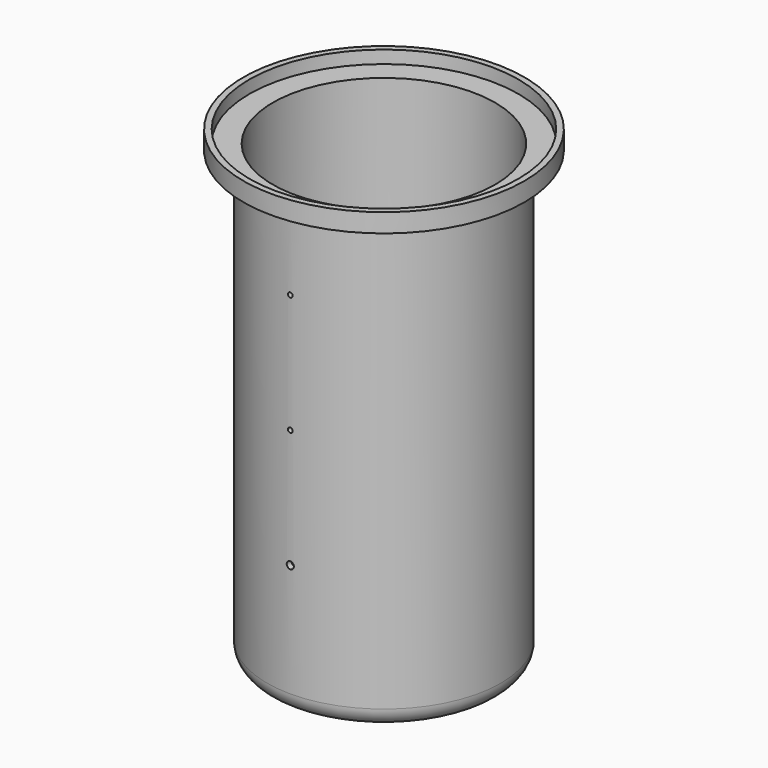
from build123d import *

# Parameters (mm, degrees)
F2_T     = -6.35
F4_DEPTH = 150.001
F6_DEPTH = 150.001


with BuildPart() as f1:
    # F0 (on Front) → F1 (revolve)
    with BuildSketch(Plane.XZ):
        with BuildLine():
            Line((0, 257.5), (0, -242.5))
            Line((0, -242.5), (105, -242.5))
            ThreePointArc((105, -242.5), (119.1421356237, -236.6421356237), (125, -222.5))
            Line((125, -222.5), (125, 237.5))
            Line((125, 237.5), (150, 237.5))
            Line((150, 237.5), (150, 257.5))
            Line((150, 257.5), (0, 257.5))
        make_face()
    revolve(axis=Axis((0, 0, 7.5), (0, 0, -1)))

    # F2
    f2_openings = [f1.faces().sort_by_distance(p)[0] for p in [
        (0, 0, 257.5),
    ]]
    offset(amount=F2_T, openings=f2_openings, kind=Kind.INTERSECTION)

    # F3 (on Front) → F4 (cut, through all)
    with BuildSketch(Plane.XZ):
        with BuildLine():
            ThreePointArc((0, 149.86), (1.7960512242, 150.6039487758), (2.54, 152.4))
            ThreePointArc((2.54, 152.4), (1.7960512242, 154.1960512242), (0, 154.94))
            Line((0, 154.94), (0, 149.86))
        make_face()
        with BuildLine():
            ThreePointArc((3.81, -101.6), (2.6940768363, -98.9059231637), (0, -97.79))
            Line((0, -97.79), (0, -105.41))
            ThreePointArc((0, -105.41), (2.6940768363, -104.2940768363), (3.81, -101.6))
        make_face()
        with BuildLine():
            Line((0, -105.41), (0, -97.79))
            ThreePointArc((0, -97.79), (-3.81, -101.6), (0, -105.41))
        make_face()
        with BuildLine():
            ThreePointArc((2.54, 25.4), (1.7960512242, 27.1960512242), (0, 27.94))
            Line((0, 27.94), (0, 22.86))
            ThreePointArc((0, 22.86), (1.7960512242, 23.6039487758), (2.54, 25.4))
        make_face()
        with BuildLine():
            Line((0, 22.86), (0, 27.94))
            ThreePointArc((0, 27.94), (-2.54, 25.4), (0, 22.86))
        make_face()
        with BuildLine():
            Line((0, 149.86), (0, 154.94))
            ThreePointArc((0, 154.94), (-2.54, 152.4), (0, 149.86))
        make_face()
    extrude(amount=F4_DEPTH, mode=Mode.SUBTRACT)

    # F5 (on Right) → F6 (cut, through all)
    with BuildSketch(Plane.YZ):
        with BuildLine():
            ThreePointArc((0, -193.675), (-6.7351920908, -209.9351920908), (9.525, -203.2))
            ThreePointArc((9.525, -203.2), (6.7351920908, -196.4648079092), (0, -193.675))
        make_face()
    extrude(amount=-F6_DEPTH, mode=Mode.SUBTRACT)


solid = f1.part
